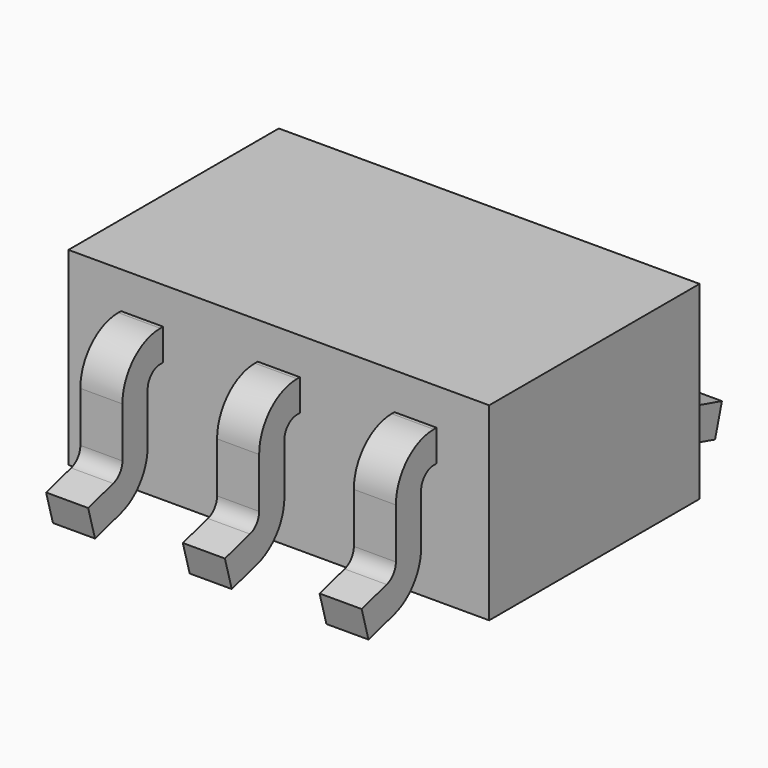
from build123d import *

# Parameters (mm, degrees)
F0_W     = 2
F0_H     = 1.25
F1_DEPTH = 0.9
F4_W     = 0.2
F4_H     = 0.15


with BuildPart() as f1:
    # F0 (on Top) → F1 (new body)
    with BuildSketch(Plane.XY):
        Rectangle(F0_W, F0_H)
    extrude(amount=F1_DEPTH)



with BuildPart() as f5:
    # F5: sweep along a path in F2
    with BuildLine(Plane.YZ) as f5_path:
        Line((-0.4733253435, 0.65), (-0.6417372497, 0.65))
        ThreePointArc((-0.6417372497, 0.65), (-0.7478032669, 0.6060660172), (-0.7917372497, 0.5))
        Line((-0.7917372497, 0.5), (-0.7917372497, 0.2613451546))
        ThreePointArc((-0.7917372497, 0.2613451546), (-0.8221502731, 0.1707970733), (-0.90105665, 0.1169668709))
        Line((-0.90105665, 0.1169668709), (-1.05, 0.075))
    # F4 (on line) → F5 (sweep)
    with BuildSketch(Plane.XZ.offset(0.4733253435)):
        with Locations((0, 0.65)):
            Rectangle(F4_W, F4_H)
    sweep(path=f5_path.line)


with BuildPart() as f6_1:
    # F6: copy of F5
    add(f5.part.moved(Location((0.65, 0, 0))))


with BuildPart() as f7_1:
    # F7: instance of F6_1
    add(f6_1.part.mirror(Plane.YZ))


with BuildPart() as f1_1:
    add(f1.part)

    add(f5.part)  # F8 merges F5

    add(f6_1.part)  # F8 merges F6_1

    add(f7_1.part)  # F8 merges F7_1
    # F8: F7_1, F6_1 across plane
    add(f7_1.part.mirror(Plane.XZ))
    add(f6_1.part.mirror(Plane.XZ))


solid = f1_1.part
